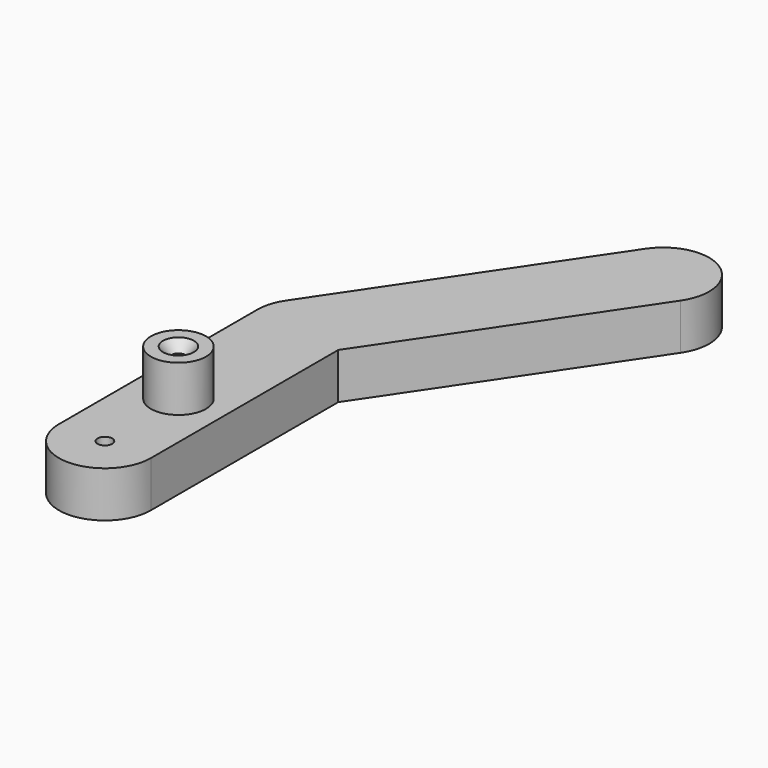
from build123d import *

# Parameters (mm, degrees)
F1_DEPTH       = 6.35
F2_R           = 3.81
F3_DEPTH       = 6.35
F5_D           = 1.9304
F5_CSINK_D     = 4.2672
F5_CSINK_ANGLE = 82
F7_D           = 2.032


with BuildPart() as f1:
    # F0 (on Top) → F1 (new body)
    with BuildSketch(Plane.XY):
        with BuildLine():
            Line((-6.35, 34.29), (-6.35, 12.7))
            ThreePointArc((-6.35, 12.7), (-4.4901280605, 17.1901280605), (0, 19.05))
            Line((0, 19.05), (0, 27.94))
            ThreePointArc((0, 27.94), (-4.4901280605, 29.7998719395), (-6.35, 34.29))
        make_face()
        with BuildLine():
            ThreePointArc((0, 19.05), (4.4901280605, 17.1901280605), (6.35, 12.7))
            Line((6.35, 12.7), (6.35, 32.3486101727))
            Line((6.35, 32.3486101727), (5.2643885857, 30.739125063))
            ThreePointArc((5.2643885857, 30.739125063), (2.9811444237, 28.6832827853), (0, 27.94))
            Line((0, 27.94), (0, 19.05))
        make_face()
        with BuildLine():
            ThreePointArc((-5.2643885857, 37.840874937), (-6.0725352004, 36.146560325), (-6.35, 34.29))
            ThreePointArc((-6.35, 34.29), (-4.4901280605, 29.7998719395), (0, 27.94))
            Line((0, 27.94), (0, 34.29))
            Line((0, 34.29), (3.550874937, 39.5543885857))
            ThreePointArc((3.550874937, 39.5543885857), (-1.2116371206, 40.5233326149), (-5.2643885857, 37.840874937))
        make_face()
        with BuildLine():
            Line((5.2643885857, 30.739125063), (6.35, 32.3486101727))
            Line((6.35, 32.3486101727), (6.35, 34.29))
            ThreePointArc((6.35, 34.29), (5.6067172147, 37.2711444237), (3.550874937, 39.5543885857))
            Line((3.550874937, 39.5543885857), (0, 34.29))
            Line((0, 34.29), (0, 27.94))
            ThreePointArc((0, 27.94), (2.9811444237, 28.6832827853), (5.2643885857, 30.739125063))
        make_face()
        with BuildLine():
            Line((6.35, 34.29), (6.35, 32.3486101727))
            Line((6.35, 32.3486101727), (27.9899881828, 64.4312120116))
            ThreePointArc((27.9899881828, 64.4312120116), (26.2764745341, 73.2464755344), (17.4612110113, 71.5329618857))
            Line((17.4612110113, 71.5329618857), (-5.2643885857, 37.840874937))
            ThreePointArc((-5.2643885857, 37.840874937), (-1.2116371206, 40.5233326149), (3.550874937, 39.5543885857))
            ThreePointArc((3.550874937, 39.5543885857), (5.6067172147, 37.2711444237), (6.35, 34.29))
        make_face()
        with BuildLine():
            Line((0, 12.7), (0, 6.35))
            ThreePointArc((0, 6.35), (4.4901280605, 8.2098719395), (6.35, 12.7))
            ThreePointArc((6.35, 12.7), (4.4901280605, 17.1901280605), (0, 19.05))
            Line((0, 19.05), (0, 12.7))
        make_face()
        with BuildLine():
            ThreePointArc((-6.35, 12.7), (-4.4901280605, 8.2098719395), (0, 6.35))
            Line((0, 6.35), (0, 12.7))
            Line((0, 12.7), (0, 19.05))
            ThreePointArc((0, 19.05), (-4.4901280605, 17.1901280605), (-6.35, 12.7))
        make_face()
        with BuildLine():
            ThreePointArc((6.35, 12.7), (4.4901280605, 8.2098719395), (0, 6.35))
            ThreePointArc((0, 6.35), (-4.4901280605, 8.2098719395), (-6.35, 12.7))
            Line((-6.35, 12.7), (-6.35, 0))
            ThreePointArc((-6.35, 0), (0, -6.35), (6.35, 0))
            Line((6.35, 0), (6.35, 12.7))
        make_face()
    extrude(amount=F1_DEPTH)

    # F2 (on face) → F3 (join)
    with BuildSketch(Plane.XY.offset(6.35)):
        with Locations((0, 12.7)):
            Circle(F2_R)
    extrude(amount=F3_DEPTH)

    # F5 (through all)
    with Locations(Plane.XY.offset(12.7)):
        with Locations((0, 12.7)):
            CounterSinkHole(F5_D / 2, F5_CSINK_D / 2, counter_sink_angle=F5_CSINK_ANGLE)

    # F7 (through all)
    with Locations(Plane.XY.offset(6.35)):
        with Locations((0, 0)):
            Hole(F7_D / 2)


solid = f1.part
